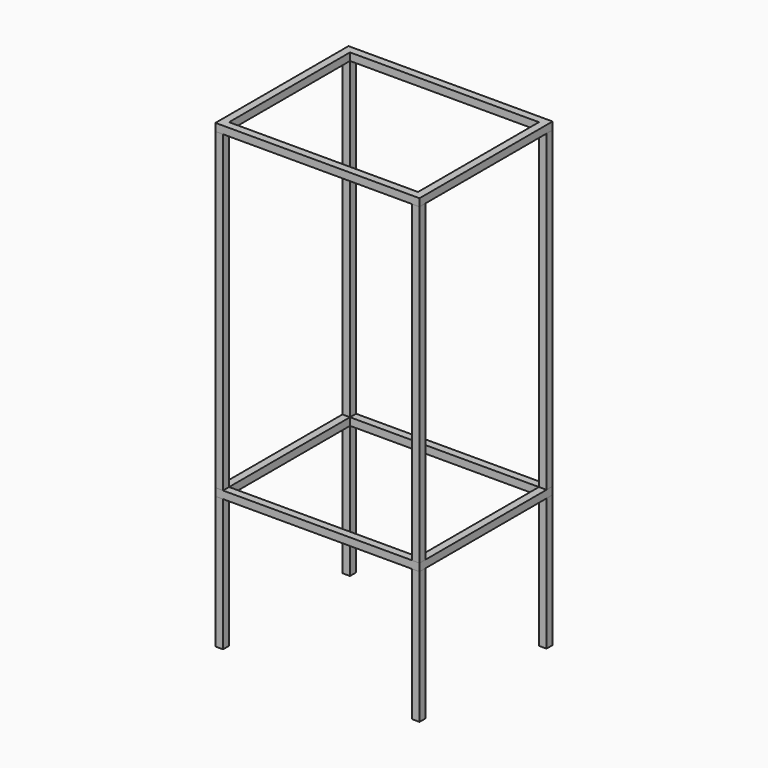
from build123d import *

# Parameters (mm, degrees)
F0_W     = 1000
F0_H     = 40
F0_W_2   = 40
F1_DEPTH = 40
F2_DEPTH = 2400


with BuildPart() as f1:
    # F0 (on Top) → F1 (new body)
    with BuildSketch(Plane.XY):
        with Locations((619.699971, 79.69993)):
            Rectangle(F0_W, F0_H)
        with Locations((1139.699971, 919.69993)):
            Rectangle(F0_W_2, F0_H)
        with Locations((619.699971, 919.69993)):
            Rectangle(F0_W, F0_H)
        Polygon((1119.699971, 179.69993), (1119.699971, 99.69993), (1159.699971, 99.69993), (1159.699971, 899.69993), (1119.699971, 899.69993), align=None)
        with Locations((1139.699971, 79.69993)):
            Rectangle(F0_W_2, F0_H)
        with Locations((99.699971, 919.69993)):
            Rectangle(F0_W_2, F0_H)
        Polygon((79.699971, 99.69993), (119.699971, 99.69993), (119.699971, 179.69993), (119.699971, 899.69993), (79.699971, 899.69993), align=None)
        with Locations((99.699971, 79.69993)):
            Rectangle(F0_W_2, F0_H)
    extrude(amount=F1_DEPTH)


with BuildPart() as f2:
    # F0 (on Top) → F2 (new body)
    with BuildSketch(Plane.XY):
        with Locations((99.699971, 919.69993)):
            Rectangle(F0_W_2, F0_H)
        with Locations((1139.699971, 919.69993)):
            Rectangle(F0_W_2, F0_H)
        with Locations((1139.699971, 79.69993)):
            Rectangle(F0_W_2, F0_H)
        with Locations((99.699971, 79.69993)):
            Rectangle(F0_W_2, F0_H)
    extrude(amount=-F2_DEPTH)


with BuildPart() as f3_1:
    # F3: copy of F1
    add(f1.part.moved(Location((0, 0, -1700))))


solid = Compound([f1.part, f2.part, f3_1.part])
